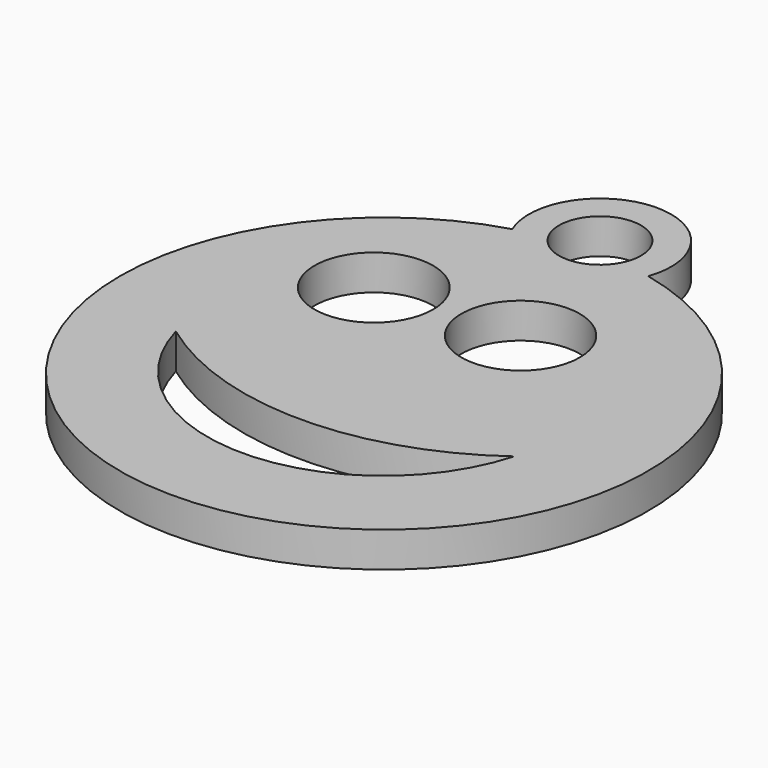
from build123d import *

# Parameters (mm, degrees)
F0_R     = 3.37213
F0_R_2   = 2.330993
F0_R_3   = 3.361663
F1_DEPTH = 2


with BuildPart() as f1:
    # F0 (on Top) → F1 (new body)
    with BuildSketch(Plane.XY):
        with BuildLine():
            ThreePointArc((3.313187, 14.629518), (-0.627308, 20.006438), (-4.223204, 14.393212))
            ThreePointArc((-4.223204, 14.393212), (0.470099, -14.992632), (3.313187, 14.629518))
        make_face()
        with BuildLine():
            ThreePointArc((9.486387, -2.59901), (-0.12995, -9.889774), (-9.746287, -2.59901))
            ThreePointArc((-9.746287, -2.59901), (-0.12995, -5.751122), (9.486387, -2.59901))
        make_face(mode=Mode.SUBTRACT)
        with Locations((-5.515314, 6.171075)):
            Circle(F0_R, mode=Mode.SUBTRACT)
        with Locations((-0.500647, 15.966899)):
            Circle(F0_R_2, mode=Mode.SUBTRACT)
        with Locations((2.455175, 6.630911)):
            Circle(F0_R_3, mode=Mode.SUBTRACT)
    extrude(amount=F1_DEPTH)


solid = f1.part
